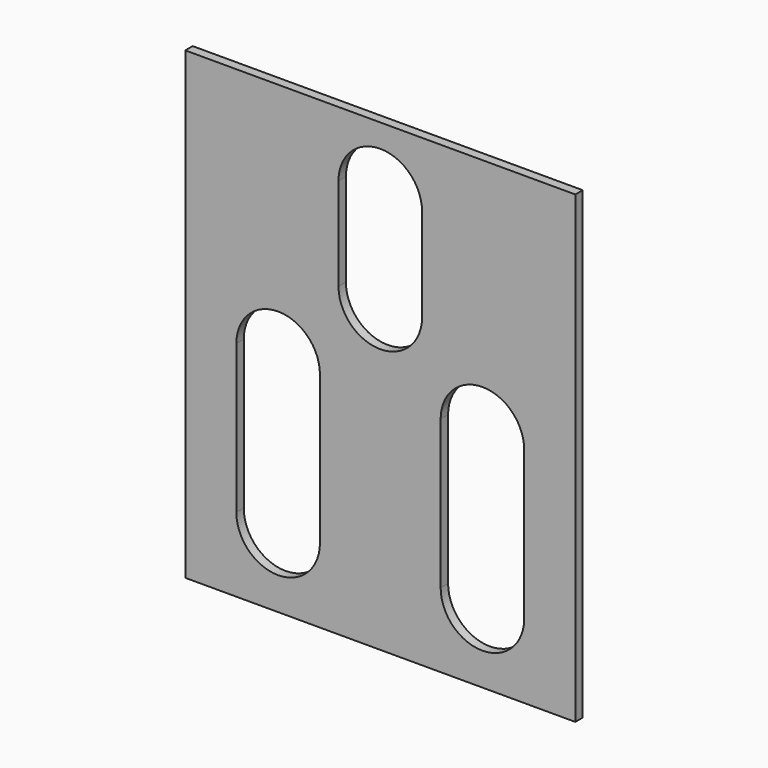
from build123d import *

# Parameters (mm, degrees)
F0_W     = 21
F0_H     = 25
F1_DEPTH = 0.5
F3_DEPTH = 25
F4_W     = 4.5
F4_H     = 5
F5_DEPTH = 25


with BuildPart() as f1:
    # F0 (on Front) → F1 (new body)
    with BuildSketch(Plane.XZ):
        with Locations((2.391892, 2.5)):
            Rectangle(F0_W, F0_H)
    extrude(amount=F1_DEPTH)

    # F2 (on face) → F3 (cut)
    with BuildSketch(Plane.XZ.offset(0.5)):
        with BuildLine():
            ThreePointArc((-5.358108, -6), (-3.10796, -8.25), (-0.858108, -5.999706))
            Line((-0.858108, -5.999706), (-0.858108, 2.000294))
            ThreePointArc((-0.858108, 2.000294), (-3.108255, 4.25), (-5.358108, 2))
            Line((-5.358108, 2), (-5.358108, -6))
        make_face()
        with BuildLine():
            Line((5.641892, 2.000294), (5.641892, -5.999706))
            ThreePointArc((5.641892, -5.999706), (7.891745, -8.25), (10.141892, -6))
            Line((10.141892, -6), (10.141892, 2))
            ThreePointArc((10.141892, 2), (7.89204, 4.25), (5.641892, 2.000294))
        make_face()
    extrude(amount=-F3_DEPTH, mode=Mode.SUBTRACT)

    # F4 (on face) → F5 (cut)
    with BuildSketch(Plane.XZ.offset(0.5)):
        with Locations((2.391892, 9)):
            Rectangle(F4_W, F4_H)
        with BuildLine():
            Line((0.141892, 11.5), (4.641892, 11.5))
            ThreePointArc((4.641892, 11.5), (2.391892, 13.75), (0.141892, 11.5))
        make_face()
        with BuildLine():
            ThreePointArc((0.141892, 6.5), (2.391892, 4.25), (4.641892, 6.5))
            Line((4.641892, 6.5), (0.141892, 6.5))
        make_face()
    extrude(amount=-F5_DEPTH, mode=Mode.SUBTRACT)


solid = f1.part
